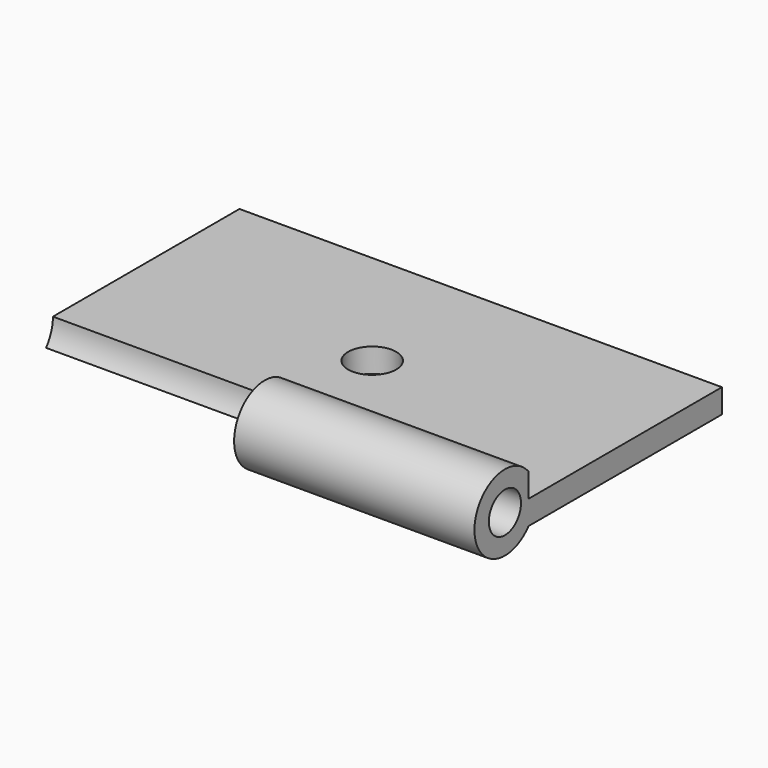
from build123d import *

# Parameters (mm, degrees)
F0_W      = 10.0359702483
F0_H      = 5.6423433125
F1_DEPTH  = 1
F2_R      = 0.7919203143
F3_DEPTH  = 10.55
F4_DEPTH  = 5
F5_R      = 0.4182620548
F6_DEPTH  = 25
F8_D      = 1
F8_DEPTH  = 2
F8_TIP    = 0.3004303095
F9_W      = 5.0282278639
F9_H      = 0.5
F10_DEPTH = 25


with BuildPart() as f1:
    # F0 (on Top) → F1 (new body)
    with BuildSketch(Plane.XY):
        Rectangle(F0_W, F0_H)
    extrude(amount=F1_DEPTH)

    # F2 (on face) → F3 (cut)
    with BuildSketch(Plane.YZ.offset(5.0179851241)):
        with Locations((-2.8211716563, 0.5)):
            Circle(F2_R)
    extrude(amount=-F3_DEPTH, mode=Mode.SUBTRACT)

    # F2 (on face) → F4 (join)
    with BuildSketch(Plane.YZ.offset(5.0179851241)):
        with Locations((-2.8211716563, 0.5)):
            Circle(F2_R)
    extrude(amount=-F4_DEPTH)

    # F5 (on face) → F6 (cut)
    with BuildSketch(Plane.YZ.offset(5.0179851241)):
        with Locations((-2.8211716563, 0.5)):
            Circle(F5_R)
    extrude(amount=-F6_DEPTH, mode=Mode.SUBTRACT)

    # F8
    with Locations(Plane.XY.offset(1)):
        with Locations((0, 0)):
            Hole(F8_D / 2, depth=F8_DEPTH)
            with Locations((0, 0, -(F8_DEPTH + F8_TIP / 2))):  # 118° drill point
                Cone(0, F8_D / 2, F8_TIP, mode=Mode.SUBTRACT)

    # F9 (on face) → F10 (cut)
    with BuildSketch(Plane.YZ.offset(5.0179851241)):
        with Locations((0.3070577243, 0.75)):
            Rectangle(F9_W, F9_H)
    extrude(amount=-F10_DEPTH, mode=Mode.SUBTRACT)


solid = f1.part
